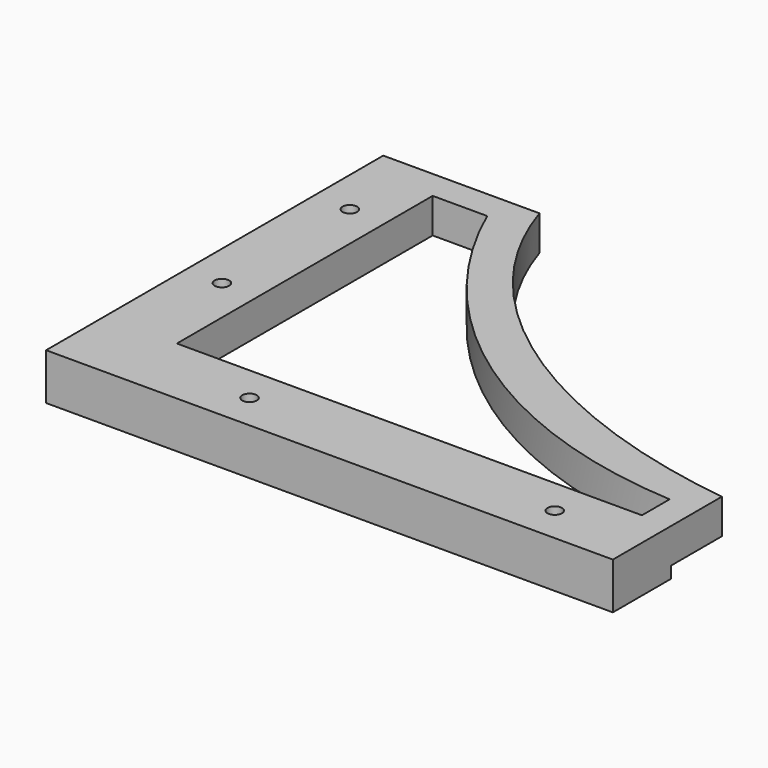
from build123d import *

# Parameters (mm, degrees)
F1_DEPTH  = 12
F2_W      = 200
F2_H      = 20
F3_DEPTH  = 5
F4_W      = 155
F4_H      = 20
F5_DEPTH  = 5
F6_R      = 2.5
F7_DEPTH  = 25
F9_DEPTH  = 5
F10_W     = 195
F10_H     = 30
F10_W_2   = 30
F10_H_2   = 145
F11_DEPTH = 25
F12_W     = 145
F12_H     = 9
F13_DEPTH = 195.0010001
F15_DEPTH = 25
F17_DEPTH = 25


with BuildPart() as f1:
    # F0 (on Top) → F1 (new body)
    with BuildSketch(Plane.XY):
        with BuildLine():
            add(Edge.make_bspline(
                [(-176, 0), (-176, -130), (0, -130)],
                knots=[3.1415926536, 3.1415926536, 3.1415926536, 4.7123889804, 4.7123889804, 4.7123889804], degree=2, weights=[1, 0.7071067812, 1]))
            Line((-176, 0), (-176, -130))
            Line((-176, -130), (0, -130))
        make_face()
        Polygon((-176, -130), (-176, 0), (-200, 0), (-200, -150), (0, -150), (0, -130), align=None)
    extrude(amount=F1_DEPTH)

    # F2 (on face) → F3 (join)
    with BuildSketch(Plane.XZ.offset(150)):
        with Locations((-100, 6)):
            Rectangle(F2_W, F2_H)
    extrude(amount=F3_DEPTH)

    # F4 (on face) → F5 (join)
    with BuildSketch(Plane(origin=(-200, 0, 0), x_dir=(0, -1, 0), z_dir=(-1, 0, 0))):
        with Locations((77.5, 6)):
            Rectangle(F4_W, F4_H)
    extrude(amount=F5_DEPTH)

    # F6 (on face) → F7 (join)
    with BuildSketch(Plane(origin=(0, 0, -4), x_dir=(1, 0, 0), z_dir=(0, 0, -1))):
        Polygon((0, 155), (0, 175), (-225, 175), (-225, 0), (-205, 0), (-205, 155), align=None)
        with Locations((-212.5, 60)):
            Circle(F6_R, mode=Mode.SUBTRACT)
        with Locations((-212.5, 115)):
            Circle(F6_R, mode=Mode.SUBTRACT)
        with Locations((-165, 162.5)):
            Circle(F6_R, mode=Mode.SUBTRACT)
        with Locations((-60, 162.5)):
            Circle(F6_R, mode=Mode.SUBTRACT)
    extrude(amount=-F7_DEPTH)

    # F8 (on face) → F9 (join)
    with BuildSketch(Plane.XY.offset(16)):
        Polygon((-190, 0), (-205, 0), (-205, -155), (0, -155), (0, -140), (-190, -140), align=None)
    extrude(amount=F9_DEPTH)

    # F10 (on Top) → F11 (cut, symmetric)
    with BuildSketch(Plane.XY):
        with Locations((-127.5, -15)):
            Rectangle(F10_W, F10_H)
        with Locations((-15, -15)):
            Rectangle(F10_W_2, F10_H)
        with Locations((-15, -102.5)):
            Rectangle(F10_W_2, F10_H_2)
    extrude(amount=F11_DEPTH, both=True, mode=Mode.SUBTRACT)

    # F12 (on face) → F13 (cut, through all)
    with BuildSketch(Plane.YZ.offset(-30)):
        with Locations((-102.5, 16.5)):
            Rectangle(F12_W, F12_H)
    extrude(amount=-F13_DEPTH, mode=Mode.SUBTRACT)

    # F14 (on face) → F15 (cut)
    with BuildSketch(Plane(origin=(0, 0, 0), x_dir=(1, 0, 0), z_dir=(0, 0, -1))):
        with BuildLine():
            ThreePointArc((-181.2494979045, 40), (-124.4154289012, 108.9058025162), (-40, 138.0975202339))
            Line((-40, 138.0975202339), (-40, 150))
            Line((-40, 150), (-200, 150))
            Line((-200, 150), (-200, 40))
            Line((-200, 40), (-181.2494979045, 40))
        make_face()
    extrude(amount=-F15_DEPTH, mode=Mode.SUBTRACT)

    # F16 (on face) → F17 (cut, through all)
    with BuildSketch(Plane.YZ.offset(-200)):
        Polygon((-150, 0), (-150, -4), (-30, -4), (-30, 0), (-40, 0), align=None)
    extrude(amount=-F17_DEPTH, mode=Mode.SUBTRACT)


solid = f1.part
